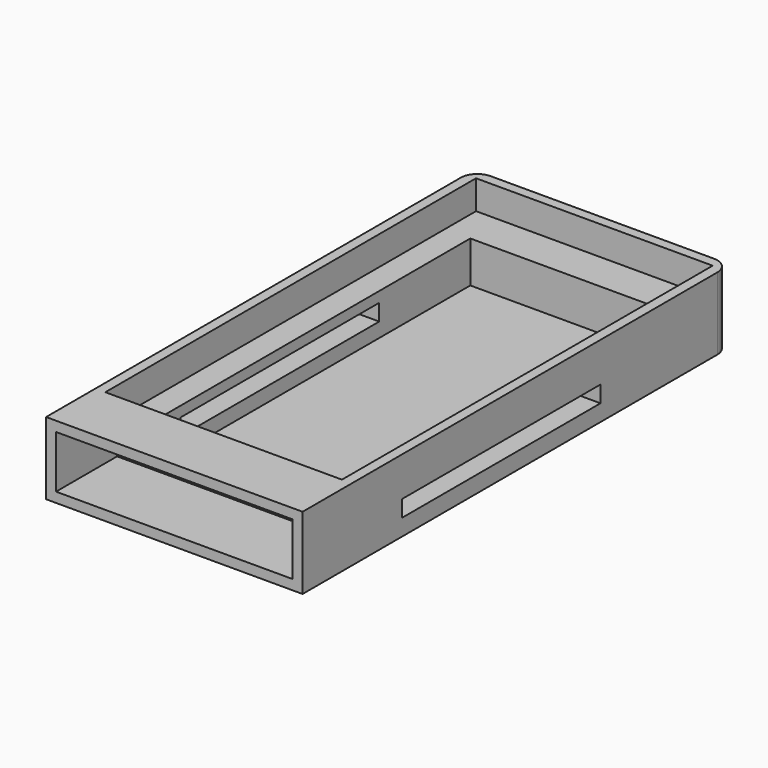
from build123d import *

# Parameters (mm, degrees)
F0_W      = 78.74
F0_H      = 148.336
F1_DEPTH  = 22.225
F2_W      = 72.644
F2_H      = 142.24
F3_DEPTH  = 8.89
F5_DEPTH  = 12.7
F0_H_2    = 15.875
F6_DEPTH  = 22.225
F7_W      = 72.644
F7_H      = 16.129
F8_DEPTH  = 23.447496
F9_W      = 76.2
F9_H      = 5.08
F10_DEPTH = 78.74
F11_R     = 5.08


with BuildPart() as f1:
    # F0 (on Top) → F1 (new body)
    with BuildSketch(Plane.XY):
        with Locations((-6.426373, -1.251059)):
            Rectangle(F0_W, F0_H)
    extrude(amount=F1_DEPTH)

    # F2 (on face) → F3 (cut)
    with BuildSketch(Plane.XY.offset(22.225)):
        with Locations((-6.426373, -1.251059)):
            Rectangle(F2_W, F2_H)
    extrude(amount=-F3_DEPTH, mode=Mode.SUBTRACT)

    # F4 (on face) → F5 (cut)
    with BuildSketch(Plane.XY.offset(13.335)):
        Polygon((-6.426373, 57.940908), (-34.970604, 57.940908), (-34.970604, -67.846563), (22.117858, -67.846563), (22.117858, 57.940908), align=None)
    extrude(amount=-F5_DEPTH, mode=Mode.SUBTRACT)

    # F0 (on Top) → F6 (join)
    with BuildSketch(Plane.XY):
        with Locations((-6.426373, -83.356559)):
            Rectangle(F0_W, F0_H_2)
    extrude(amount=F6_DEPTH)

    # F7 (on face) → F8 (cut, through all)
    with BuildSketch(Plane.XZ.offset(91.294059)):
        with Locations((-6.426373, 11.1125)):
            Rectangle(F7_W, F7_H)
    extrude(amount=-F8_DEPTH, mode=Mode.SUBTRACT)

    # F9 (on face) → F10 (cut, through all)
    with BuildSketch(Plane(origin=(-45.796373, 0, 0), x_dir=(0, -1, 0), z_dir=(-1, 0, 0))):
        with Locations((15.094059, 7.62)):
            Rectangle(F9_W, F9_H)
    extrude(amount=-F10_DEPTH, mode=Mode.SUBTRACT)

    # F11
    f11_edges = [f1.edges().sort_by_distance(p)[0] for p in [
        (-45.796373, 72.916941, 11.1125),
        (32.943627, 72.916941, 11.1125),
    ]]
    fillet(f11_edges, radius=F11_R)


solid = f1.part
